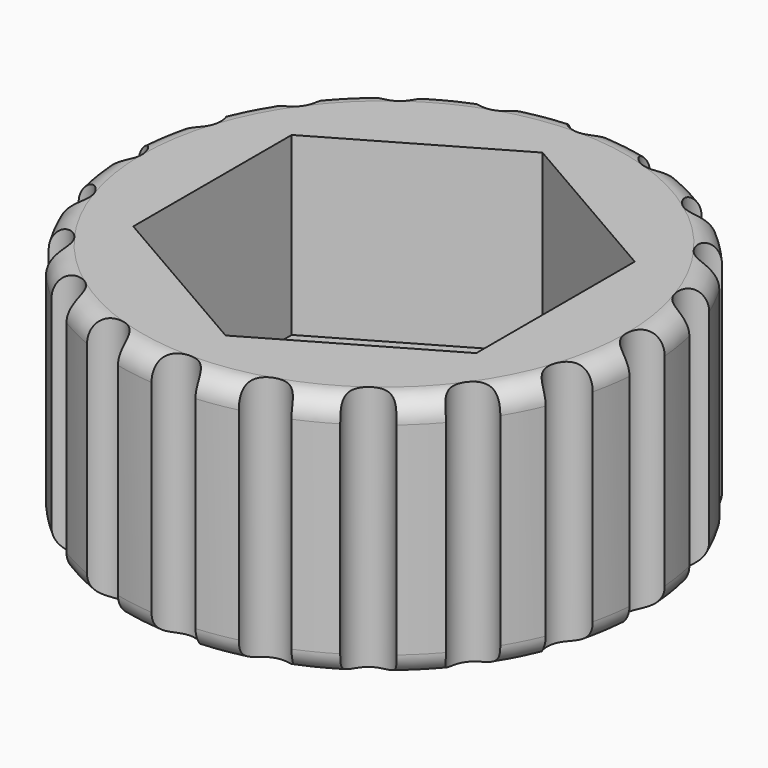
from build123d import *

# Parameters (mm, degrees)
SKETCH017_R           = 6
PAD010_DEPTH          = 5.6
FILLET004_R           = 0.5
POCKET003_DEPTH       = 4
SKETCH019_R           = 0.5
POCKET004_DEPTH       = 41.342293
POLARPATTERN002_COUNT = 20


with BuildPart() as part:
    # Sketch017 → Pad010 (new body)
    with BuildSketch(Plane.XY):
        Circle(SKETCH017_R)
    extrude(amount=PAD010_DEPTH)

    # Fillet004
    fillet004_edges = [part.edges().sort_by_distance(p)[0] for p in [
        (-6, 0, 0),
        (-6, 0, 5.6),
    ]]
    fillet(fillet004_edges, radius=FILLET004_R)

    # Sketch018 (on Face3 of Pad010) → Pocket003 (cut)
    with BuildSketch(Plane.XY.offset(5.6)):
        Polygon((3.897114, -2.25), (3.897114, 2.25), (0, 4.5), (-3.897114, 2.25), (-3.897114, -2.25), (0, -4.5), align=None)
    extrude(amount=-POCKET003_DEPTH, mode=Mode.SUBTRACT)

    # Sketch019 → Pocket004 (cut, through all)
    with BuildSketch(Plane.XY):
        with Locations((6, 0)):
            Circle(SKETCH019_R)
    pocket004 = extrude(amount=POCKET004_DEPTH, mode=Mode.SUBTRACT)

    # PolarPattern002: Pocket004 ×20 about axis
    polarpattern002_axis = Axis((0, 0, 0), (0, 0, 1))
    for i in range(1, POLARPATTERN002_COUNT):
        add(pocket004.rotate(polarpattern002_axis, i * 360 / POLARPATTERN002_COUNT), mode=Mode.SUBTRACT)


solid = part.part
